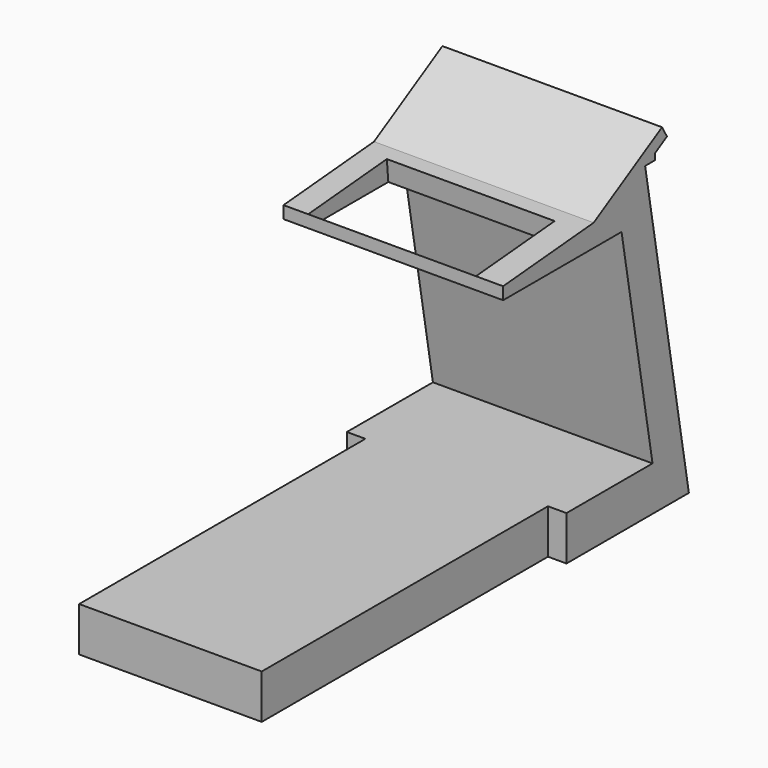
from build123d import *

# Parameters (mm, degrees)
F1_DEPTH = 445
F2_W     = 680
F2_H     = 400
F3_DEPTH = 86.1864572875
F4_W     = 75
F4_H     = 1450
F5_DEPTH = 180.001


with BuildPart() as f1:
    # F0 (on Right) → F1 (new body, symmetric)
    with BuildSketch(Plane.YZ):
        Polygon((0, 180), (0, 0), (2070, 0), (1848.4551352237, 1256.4433638354), (1898.4544831016, 1256.6987298108), (1898.4544831016, 1281.6987298108), (1959.0762613666, 1316.6987298108), (1934.0762613666, 1360), (1587.6660998528, 1160), (1129.0381352408, 1119.8752523205), (1129.0381352408, 1069.8752523205), (1729.0381352408, 1069.8752523205), (1885.9471516896, 180), align=None)
    extrude(amount=F1_DEPTH, both=True)

    # F2 (on face) → F3 (cut, up to face)
    with BuildSketch(Plane(origin=(0, -88.6558352853, 1013.3408342556), x_dir=(1, 0, 0), z_dir=(0, -0.0871557427, 0.9961946981))):
        with Locations((-5, 1422.3453636709)):
            Rectangle(F2_W, F2_H)
    extrude(amount=-F3_DEPTH, mode=Mode.SUBTRACT)

    # F4 (on face) → F5 (cut, through all)
    with BuildSketch(Plane.XY.offset(180)):
        with Locations((-407.5, 725)):
            Rectangle(F4_W, F4_H)
        with Locations((407.5, 725)):
            Rectangle(F4_W, F4_H)
    extrude(amount=-F5_DEPTH, mode=Mode.SUBTRACT)


solid = f1.part
